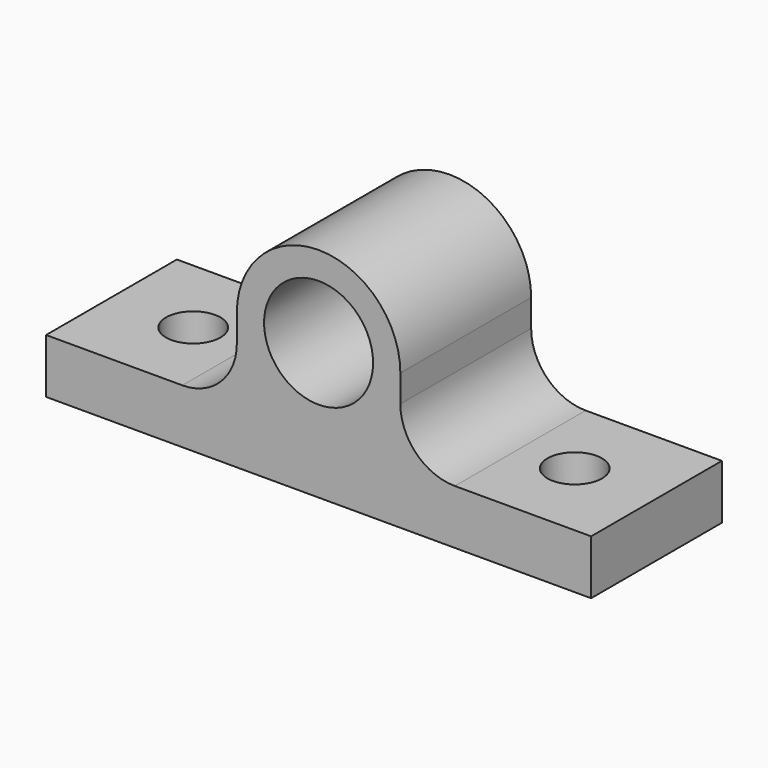
from build123d import *

# Parameters (mm, degrees)
F0_R     = 12.7
F1_DEPTH = 38.1
F2_R     = 6.35
F3_DEPTH = 25.4


with BuildPart() as f1:
    # F0 (on Front) → F1 (new body)
    with BuildSketch(Plane.XZ):
        with BuildLine():
            ThreePointArc((28.713042, 31.75), (9.663042, 50.8), (-9.386958, 31.75))
            ThreePointArc((-9.386958, 31.75), (9.663042, 12.7), (28.713042, 31.75))
        make_face()
        with Locations((9.663042, 31.75)):
            Circle(F0_R, mode=Mode.SUBTRACT)
        with BuildLine():
            Line((-53.836958, 12.7), (-53.836958, 0))
            Line((-53.836958, 0), (73.163042, 0))
            Line((73.163042, 0), (73.163042, 12.7))
            Line((73.163042, 12.7), (41.413042, 12.7))
            ThreePointArc((41.413042, 12.7), (32.432786, 16.419744), (28.713042, 25.4))
            Line((28.713042, 25.4), (28.713042, 31.75))
            ThreePointArc((28.713042, 31.75), (9.663042, 12.7), (-9.386958, 31.75))
            Line((-9.386958, 31.75), (-9.386958, 25.4))
            ThreePointArc((-9.386958, 25.4), (-13.106702, 16.419744), (-22.086958, 12.7))
            Line((-22.086958, 12.7), (-53.836958, 12.7))
        make_face()
    extrude(amount=F1_DEPTH)

    # F2 (on face) → F3 (cut)
    with BuildSketch(Plane.XY.offset(12.7)):
        with Locations((54.113042, -19.05)):
            Circle(F2_R)
        with Locations((-34.786958, -19.05)):
            Circle(F2_R)
    extrude(amount=-F3_DEPTH, mode=Mode.SUBTRACT)


solid = f1.part
